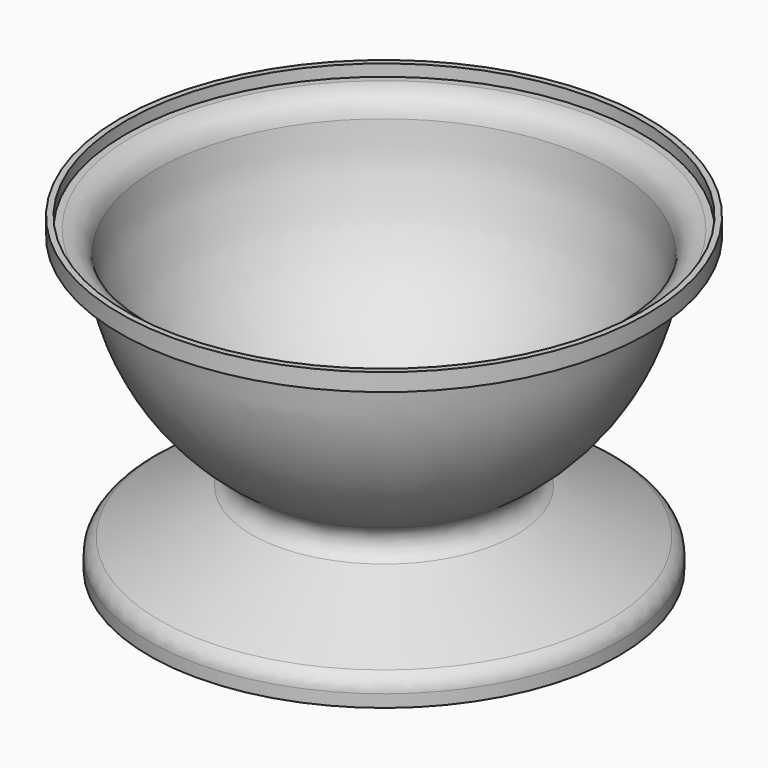
from build123d import *

# Parameters (mm, degrees)
F2_R     = 45
F2_R_2   = 40
F3_DEPTH = 3
F4_R     = 3
F5_T     = -1


with BuildPart() as f1:
    # F0 (on Front) → F1 (revolve)
    with BuildSketch(Plane.XZ):
        Polygon((0, 15), (0, 0), (40, 0), (40, 4), (17.5, 15), align=None)
        with BuildLine():
            Line((0, 53), (0, 15))
            Line((0, 15), (17.5, 15))
            ThreePointArc((17.5, 15), (34.461029, 30.61847), (40, 53))
            Line((40, 53), (0, 53))
        make_face()
    revolve(axis=Axis((0, 0, 34.433964), (0, 0, -1)))

    # F2 (on face) → F3 (join)
    with BuildSketch(Plane.XY.offset(53)):
        Circle(F2_R)
        Circle(F2_R_2, mode=Mode.SUBTRACT)
    extrude(amount=-F3_DEPTH)

    # F4
    f4_edges = [f1.edges().sort_by_distance(p)[0] for p in [
        (-40, 0, 4),
        (28.75, 0, 9.5),
        (-17.5, 0, 15),
        (-40.035757, 0, 50),
    ]]
    fillet(f4_edges, radius=F4_R)

    # F5
    f5_openings = [f1.faces().sort_by_distance(p)[0] for p in [
        (0, 0, 0),
        (0, 0, 53),
    ]]
    offset(amount=F5_T, openings=f5_openings)


solid = f1.part
